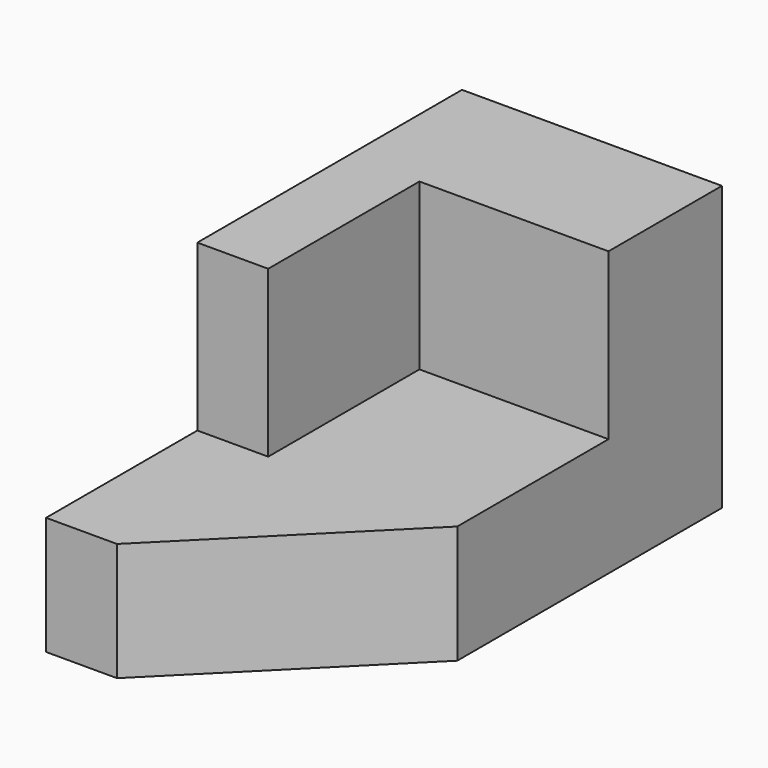
from build123d import *

# Parameters (mm, degrees)
F0_W     = 1397
F0_H     = 2794
F1_DEPTH = 1524
F3_DEPTH = 889
F5_DEPTH = 932.18


with BuildPart() as f1:
    # F0 (on Top) → F1 (new body)
    with BuildSketch(Plane.XY):
        with Locations((-698.5, -1397)):
            Rectangle(F0_W, F0_H)
    extrude(amount=F1_DEPTH)

    # F2 (on face) → F3 (cut)
    with BuildSketch(Plane.XY.offset(1524)):
        Polygon((-1016, -1778), (-1397, -1778), (-1397, -2794), (0, -2794), (0, -762), (-1016, -762), align=None)
    extrude(amount=-F3_DEPTH, mode=Mode.SUBTRACT)

    # F4 (on face) → F5 (cut)
    with BuildSketch(Plane.XY.offset(635)):
        Polygon((0, -2794), (0, -1778), (-1016, -2794), align=None)
    extrude(amount=-F5_DEPTH, mode=Mode.SUBTRACT)


solid = f1.part
